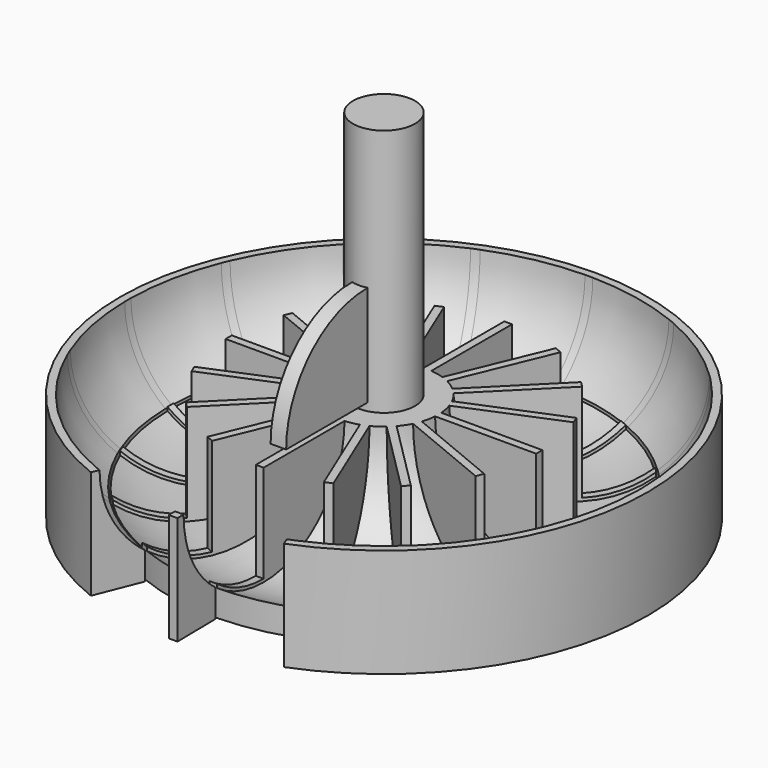
from build123d import *

# Parameters (mm, degrees)
F3_DEPTH  = 3.175
F4_COUNT  = 16
F5_W      = 12.7
F5_H      = 82.55
F6_DEPTH  = 6.35
F9_R      = 176.2125
F9_R_2    = 174.625
F10_DEPTH = 292.101
F14_DEPTH = 88.901


with BuildPart() as f1:
    # F0 (on Front) → F1 (revolve)
    with BuildSketch(Plane.XZ):
        with BuildLine():
            Line((0, 292.1), (0, 0))
            Line((0, 0), (25.4, 0))
            Line((25.4, 0), (38.1, 0))
            Line((38.1, 0), (215.9, 0))
            Line((215.9, 0), (215.9, 88.9))
            Line((215.9, 88.9), (209.55, 88.9))
            ThreePointArc((209.55, 88.9), (127, 6.35), (44.45, 88.9))
            Line((44.45, 88.9), (38.1, 88.9))
            Line((38.1, 88.9), (25.4, 88.9))
            Line((25.4, 88.9), (25.4, 292.1))
            Line((25.4, 292.1), (0, 292.1))
        make_face()
    revolve(axis=Axis((0, 0, 146.05), (0, 0, 1)))

    # F2 (on Front) → F3 (join, symmetric)
    with BuildSketch(Plane.XZ):
        with BuildLine():
            Line((212.09, 88.9), (207.01, 88.9))
            ThreePointArc((207.01, 88.9), (183.575614, 32.324386), (127, 8.89))
            ThreePointArc((127, 8.89), (70.424386, 32.324386), (46.99, 88.9))
            Line((46.99, 88.9), (41.91, 88.9))
            ThreePointArc((41.91, 88.9), (127, 3.81), (212.09, 88.9))
        make_face()
        with BuildLine():
            ThreePointArc((46.99, 88.9), (70.424386, 32.324386), (127, 8.89))
            Line((127, 8.89), (127, 88.9))
            Line((127, 88.9), (46.99, 88.9))
        make_face()
    extrude(amount=F3_DEPTH, both=True)


with BuildPart() as f4_1:
    # F4: instance of F1
    add(f1.part.rotate(Axis((0, 0, 88.9), (0, 0, 1)), 1 * 360 / F4_COUNT))


with BuildPart() as f4_2:
    # F4: instance of F1
    add(f1.part.rotate(Axis((0, 0, 88.9), (0, 0, 1)), 2 * 360 / F4_COUNT))


with BuildPart() as f4_3:
    # F4: instance of F1
    add(f1.part.rotate(Axis((0, 0, 88.9), (0, 0, 1)), 3 * 360 / F4_COUNT))


with BuildPart() as f4_4:
    # F4: instance of F1
    add(f1.part.rotate(Axis((0, 0, 88.9), (0, 0, 1)), 4 * 360 / F4_COUNT))


with BuildPart() as f4_5:
    # F4: instance of F1
    add(f1.part.rotate(Axis((0, 0, 88.9), (0, 0, 1)), 5 * 360 / F4_COUNT))


with BuildPart() as f4_6:
    # F4: instance of F1
    add(f1.part.rotate(Axis((0, 0, 88.9), (0, 0, 1)), 6 * 360 / F4_COUNT))


with BuildPart() as f4_7:
    # F4: instance of F1
    add(f1.part.rotate(Axis((0, 0, 88.9), (0, 0, 1)), 7 * 360 / F4_COUNT))


with BuildPart() as f4_8:
    # F4: instance of F1
    add(f1.part.rotate(Axis((0, 0, 88.9), (0, 0, 1)), 8 * 360 / F4_COUNT))


with BuildPart() as f4_9:
    # F4: instance of F1
    add(f1.part.rotate(Axis((0, 0, 88.9), (0, 0, 1)), 9 * 360 / F4_COUNT))


with BuildPart() as f4_10:
    # F4: instance of F1
    add(f1.part.rotate(Axis((0, 0, 88.9), (0, 0, 1)), 10 * 360 / F4_COUNT))


with BuildPart() as f4_11:
    # F4: instance of F1
    add(f1.part.rotate(Axis((0, 0, 88.9), (0, 0, 1)), 11 * 360 / F4_COUNT))


with BuildPart() as f4_12:
    # F4: instance of F1
    add(f1.part.rotate(Axis((0, 0, 88.9), (0, 0, 1)), 12 * 360 / F4_COUNT))


with BuildPart() as f4_13:
    # F4: instance of F1
    add(f1.part.rotate(Axis((0, 0, 88.9), (0, 0, 1)), 13 * 360 / F4_COUNT))


with BuildPart() as f4_14:
    # F4: instance of F1
    add(f1.part.rotate(Axis((0, 0, 88.9), (0, 0, 1)), 14 * 360 / F4_COUNT))


with BuildPart() as f4_15:
    # F4: instance of F1
    add(f1.part.rotate(Axis((0, 0, 88.9), (0, 0, 1)), 15 * 360 / F4_COUNT))


with BuildPart() as f6:
    # F5 (on Right) → F6 (new body, symmetric)
    with BuildSketch(Plane.YZ):
        with Locations((-19.05, 136.525)):
            Rectangle(F5_W, F5_H)
        with BuildLine():
            Line((-107.95, 95.25), (-25.4, 95.25))
            Line((-25.4, 95.25), (-25.4, 177.8))
            ThreePointArc((-25.4, 177.8), (-83.771665, 153.621665), (-107.95, 95.25))
        make_face()
    extrude(amount=F6_DEPTH, both=True)


with BuildPart() as f4_1_1:
    add(f4_1.part)

    # F7: union F4_2, F4_3, F4_7, F4_4, F4_5, F4_12, F4_9, F4_10, F6, F4_15, F4_8, F4_11, F4_14, F4_13, F4_6
    add(f4_2.part)
    add(f4_3.part)
    add(f4_7.part)
    add(f4_4.part)
    add(f4_5.part)
    add(f4_12.part)
    add(f4_9.part)
    add(f4_10.part)
    add(f6.part)
    add(f4_15.part)
    add(f4_8.part)
    add(f4_11.part)
    add(f4_14.part)
    add(f4_13.part)
    add(f4_6.part)


with BuildPart() as f1_1:
    add(f1.part)

    # F8: union F4_1
    add(f4_1_1.part)

    # F9 (on Top) → F10 (cut, through all)
    with BuildSketch(Plane.XY):
        Circle(F9_R)
        Circle(F9_R_2, mode=Mode.SUBTRACT)
    extrude(amount=F10_DEPTH, mode=Mode.SUBTRACT)

    # F11 (on Front) → F12 (revolve, cut)
    with BuildSketch(Plane.XZ):
        with BuildLine():
            Line((173.799316, 28.764619), (176.141393, 22.570323))
            ThreePointArc((176.141393, 22.570323), (200.726266, 51.765915), (209.55, 88.9))
            Line((209.55, 88.9), (203.2, 88.9))
            ThreePointArc((203.2, 88.9), (195.456365, 55.431118), (173.799316, 28.764619))
        make_face()
    revolve(axis=Axis((0, 0, 292.1), (0, 0, -1)), mode=Mode.SUBTRACT)

    # F13 (on face) → F14 (cut, through all)
    with BuildSketch(Plane.XY.offset(88.9)):
        with BuildLine():
            Line((78.925122, -200.956799), (64.080799, -163.204022))
            ThreePointArc((64.080799, -163.204022), (34.188599, -171.96814), (3.217252, -175.304167))
            Line((3.217252, -175.304167), (3.813409, -215.86632))
            ThreePointArc((3.813409, -215.86632), (42.035575, -211.768318), (78.925122, -200.956799))
        make_face()
        with BuildLine():
            ThreePointArc((-3.285991, -175.302892), (-34.169416, -171.971953), (-63.980381, -163.243414))
            Line((-63.980381, -163.243414), (-78.962002, -200.942311))
            ThreePointArc((-78.962002, -200.942311), (-41.796284, -211.815676), (-3.285991, -215.874992))
            Line((-3.285991, -215.874992), (-3.285991, -175.302892))
        make_face()
    extrude(amount=-F14_DEPTH, mode=Mode.SUBTRACT)


solid = f1_1.part
